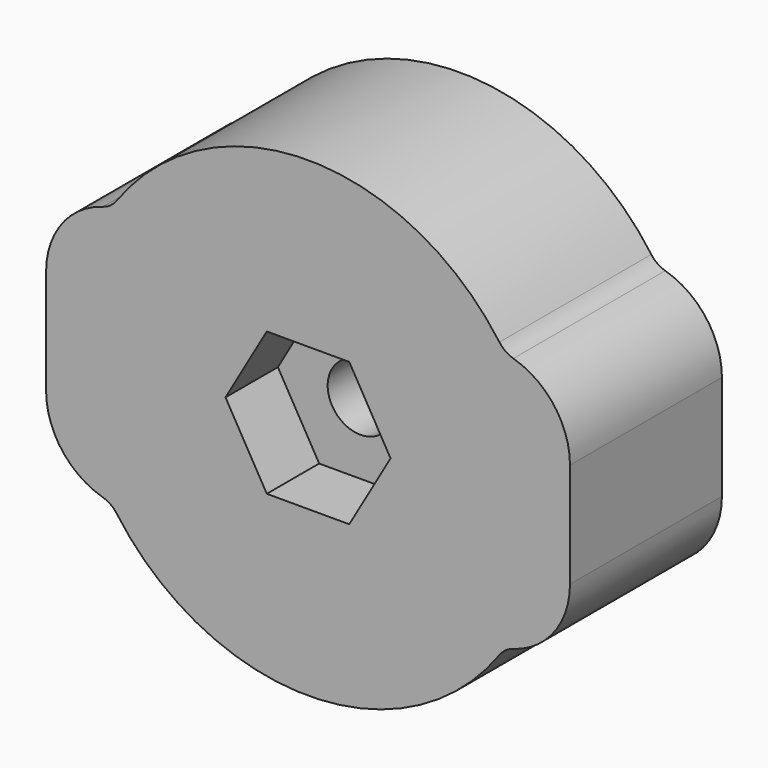
from build123d import *

# Parameters (mm, degrees)
CYLINDER014_R     = 4
CYLINDER014_DEPTH = 10
CYLINDER013_R     = 1.25
CYLINDER013_DEPTH = 50
PRISM002_DEPTH    = 2.5
BOX004_W          = 20
BOX004_H          = 7.25
BOX004_DEPTH      = 10
FILLET004_R       = 3
FILLET005_R       = 3
CYLINDER016_R     = 4
CYLINDER016_DEPTH = 7.25
CYLINDER015_R     = 9
CYLINDER015_DEPTH = 7.25
FILLET006_R       = 1


with BuildPart() as cylinder013:
    # Cylinder014 → Cylinder014 (new body)
    with BuildSketch(Plane(origin=(0, -16, 22.5), x_dir=(1, 0, 0), z_dir=(0, -1, 0))):
        Circle(CYLINDER014_R)
    extrude(amount=CYLINDER014_DEPTH)


with BuildPart() as fusion004:
    # Cylinder013 → Cylinder013 (new body)
    with BuildSketch(Plane(origin=(0, -16, 22.5), x_dir=(1, 0, 0), z_dir=(0, -1, 0))):
        Circle(CYLINDER013_R)
    extrude(amount=CYLINDER013_DEPTH)

    # Fusion004: union Cylinder013
    add(cylinder013.part)


with BuildPart() as fusion004_1:
    # Fusion004 placement: moved
    add(fusion004.part.moved(Location((0, 57, 0))))


with BuildPart() as fusion005:
    # Prism002 → Prism002 (new body)
    with BuildSketch(Plane(origin=(0, 29, 22.5), x_dir=(1, 0, 0), z_dir=(0, -1, 0))):
        Polygon((3.15, 0), (1.575, 2.72798), (-1.575, 2.72798), (-3.15, 0), (-1.575, -2.72798), (1.575, -2.72798), align=None)
    extrude(amount=PRISM002_DEPTH)

    # Fusion005: union Fusion004
    add(fusion004_1.part)


with BuildPart() as fusion005_1:
    # Fusion005 placement: moved
    add(fusion005.part.moved(Location((0, -26.5, -5))))


with BuildPart() as fillet005:
    # Box004 → Box004 (new body)
    with BuildSketch(Plane(origin=(-10, 0, 12.5), x_dir=(1, 0, 0), z_dir=(0, 0, 1))):
        with Locations((10, 3.625)):
            Rectangle(BOX004_W, BOX004_H)
    extrude(amount=BOX004_DEPTH)

    # Cut012: cut Fusion005
    add(fusion005_1.part, mode=Mode.SUBTRACT)

    # Fillet004
    fillet004_edges = [fillet005.edges().sort_by_distance(p)[0] for p in [
        (10, 3.625, 22.5),
    ]]
    fillet(fillet004_edges, radius=FILLET004_R)

    # Fillet005
    fillet005_edges = [fillet005.edges().sort_by_distance(p)[0] for p in [
        (10, 3.625, 12.5),
        (-10, 3.625, 12.5),
        (-10, 3.625, 22.5),
    ]]
    fillet(fillet005_edges, radius=FILLET005_R)


with BuildPart() as cylinder015:
    # Cylinder016 → Cylinder016 (new body)
    with BuildSketch(Plane(origin=(0, 0, 17.5), x_dir=(1, 0, 0), z_dir=(0, -1, 0))):
        Circle(CYLINDER016_R)
    extrude(amount=CYLINDER016_DEPTH)


with BuildPart() as tornillos_para_metal:
    # Cylinder015 → Cylinder015 (new body)
    with BuildSketch(Plane(origin=(0, 0, 17.5), x_dir=(1, 0, 0), z_dir=(0, -1, 0))):
        Circle(CYLINDER015_R)
    extrude(amount=CYLINDER015_DEPTH)

    # Cut013: cut Cylinder015
    add(cylinder015.part, mode=Mode.SUBTRACT)


with BuildPart() as tornillos_para_metal_1:
    # Cut013 placement: moved
    add(tornillos_para_metal.part.moved(Location((0, 7.25, 0))))

    # Fusion006: union Fillet005
    add(fillet005.part)

    # Fillet006
    fillet006_edges = [tornillos_para_metal_1.edges().sort_by_distance(p)[0] for p in [
        (7.512605, 3.625, 22.455882),
        (7.512605, 3.625, 12.544118),
        (-7.512605, 3.625, 12.544118),
        (-7.512605, 3.625, 22.455882),
    ]]
    fillet(fillet006_edges, radius=FILLET006_R)


with BuildPart() as tornillos_para_metal_2:
    # Fillet006 placement: moved
    add(tornillos_para_metal_1.part.moved(Location((0, 30, 5))))


solid = tornillos_para_metal_2.part
